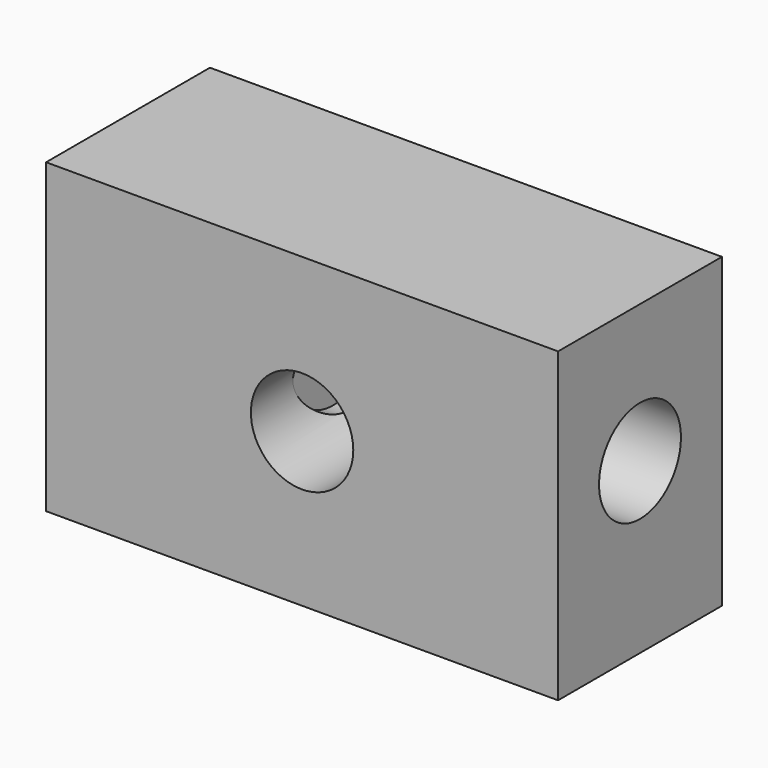
from build123d import *

# Parameters (mm, degrees)
F0_W     = 127
F0_H     = 76.2
F1_DEPTH = 50.8
F2_R     = 12.7
F3_DEPTH = 38.1
F4_R     = 12.7
F5_DEPTH = 76.2


with BuildPart() as f1:
    # F0 (on Front) → F1 (new body)
    with BuildSketch(Plane.XZ):
        with Locations((-10.246716, -16.448329)):
            Rectangle(F0_W, F0_H)
    extrude(amount=F1_DEPTH)

    # F2 (on face) → F3 (cut)
    with BuildSketch(Plane.XZ.offset(50.8)):
        with Locations((-10.246716, -16.448329)):
            Circle(F2_R)
    extrude(amount=-F3_DEPTH, mode=Mode.SUBTRACT)

    # F4 (on face) → F5 (cut)
    with BuildSketch(Plane.YZ.offset(53.253284)):
        with Locations((-25.4, -12.58353)):
            Circle(F4_R)
    extrude(amount=-F5_DEPTH, mode=Mode.SUBTRACT)


solid = f1.part
